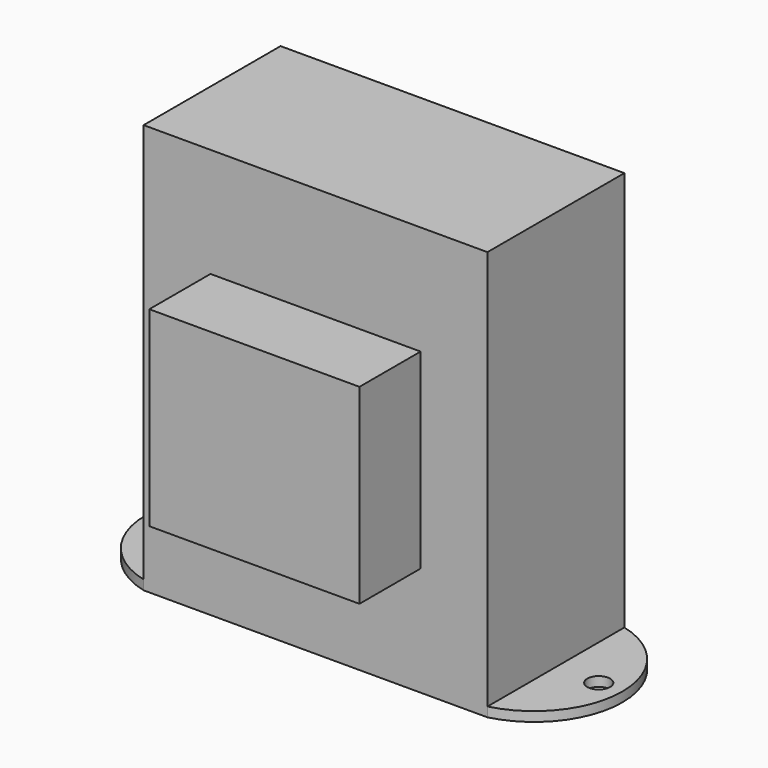
from build123d import *

# Parameters (mm, degrees)
F0_W     = 57.15
F0_H     = 68.072
F1_DEPTH = 14.224
F2_W     = 34.925
F2_H     = 31.75
F3_DEPTH = 26.924
F5_DEPTH = 1.5875
F7_D     = 3.7973
F7_DEPTH = 14.605
F7_TIP   = 1.1408240143


with BuildPart() as f1:
    # F0 (on Front) → F1 (new body, symmetric)
    with BuildSketch(Plane.XZ):
        Rectangle(F0_W, F0_H)
    extrude(amount=F1_DEPTH, both=True)

    # F2 (on Front) → F3 (join, symmetric)
    with BuildSketch(Plane.XZ):
        Rectangle(F2_W, F2_H)
    extrude(amount=F3_DEPTH, both=True)

    # F4 (on face) → F5 (join)
    with BuildSketch(Plane(origin=(0, 0, -34.036), x_dir=(1, 0, 0), z_dir=(0, 0, -1))):
        with BuildLine():
            Line((-28.575, -14.224), (-28.575, 14.224))
            ThreePointArc((-28.575, 14.224), (-39.624, 0), (-28.575, -14.224))
        make_face()
        with BuildLine():
            ThreePointArc((28.575, -14.224), (39.624, 0), (28.575, 14.224))
            Line((28.575, 14.224), (28.575, -14.224))
        make_face()
    extrude(amount=-F5_DEPTH)

    # F7
    with Locations(Plane(origin=(0, 0, -34.036), x_dir=(1, 0, 0), z_dir=(0, 0, -1))):
        with Locations((-35.687, 0), (35.687, 0)):
            Hole(F7_D / 2, depth=F7_DEPTH)
            with Locations((0, 0, -(F7_DEPTH + F7_TIP / 2))):  # 118° drill point
                Cone(0, F7_D / 2, F7_TIP, mode=Mode.SUBTRACT)


solid = f1.part
